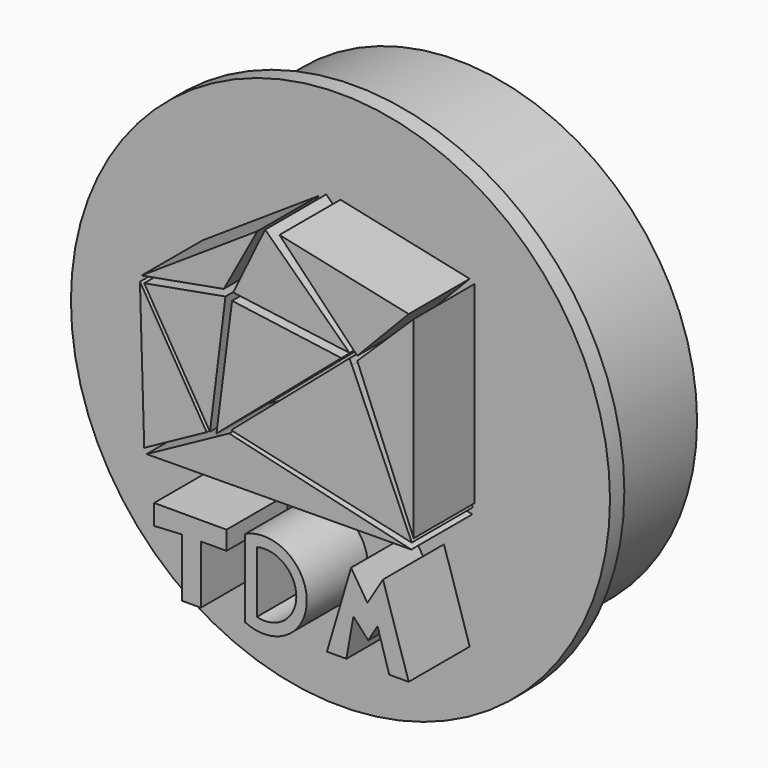
from build123d import *

# Parameters (mm, degrees)
F1_DEPTH = 25.4
F2_R     = 64.713849
F3_DEPTH = 34.544
F4_R     = 72.72038
F5_DEPTH = 4.826


with BuildPart() as f1:
    # F0 (on Front) → F1 (new body)
    with BuildSketch(Plane.XZ):
        Polygon((-33.810001, -32.55), (-26.250001, -32.129999), (-26.250001, -47.880001), (-21.21, -47.880001), (-21.21, -32.129999), (-14.28, -32.129999), (-14.28, -27.09), (-33.810001, -27.09), align=None)
        with BuildLine():
            ThreePointArc((-9.24, -47.459997), (7.38291, -36.959998), (-9.24, -26.459999))
            Line((-9.24, -26.459999), (-9.24, -47.459997))
        make_face()
        with BuildLine():
            Line((-6.09, -45.150001), (-6.09, -28.56))
            ThreePointArc((-6.09, -28.56), (4.548028, -36.855), (-6.09, -45.150001))
        make_face(mode=Mode.SUBTRACT)
        Polygon((23.730002, -32.129999), (19.320002, -25.2), (12.81, -47.250003), (18.060001, -47.250003), (19.950001, -36.539998), (23.940001, -40.95), (26.460001, -36.75), (29.609999, -47.250003), (34.860004, -47.250003), (27.929999, -25.2), align=None)
        Polygon((-5.941163, 46.513464), (-37.198212, 25.824275), (-15.02059, 29.843038), align=None)
        Polygon((-3.85736, 47.555361), (-12.490258, 29.843038), (18.915633, 25.675431), align=None)
        Polygon((34.865764, 40.107735), (0, 47.555361), (20.999435, 25.675431), align=None)
        Polygon((36.211781, -12.726083), (36.211781, 39.339835), (20.999435, 24.463724), align=None)
        Polygon((-14.557891, 28.193708), (-36.486941, 24.219988), (-18.741667, -5.283929), align=None)
        Polygon((-17.001314, -5.135086), (16.682984, 23.74047), (-12.787945, 27.759233), align=None)
        Polygon((-17.848609, -6.345073), (-35.85862, -16.149474), (35.561599, -15.605713), (-13.546449, -4.003036), align=None)
        Polygon((-19.642144, -5.698055), (-37.636496, 24.219988), (-36.486941, -14.868131), align=None)
        Polygon((18.915633, 24.399498), (-13.038057, -3.048536), (35.689779, -13.916828), (19.545413, 22.960923), align=None)
    extrude(amount=F1_DEPTH)


with BuildPart() as f3:
    # F2 (on Front) → F3 (new body)
    with BuildSketch(Plane.XZ):
        Circle(F2_R)
    extrude(amount=-F3_DEPTH)


with BuildPart() as f5:
    # F4 (on Front) → F5 (new body)
    with BuildSketch(Plane.XZ):
        Circle(F4_R)
    extrude(amount=F5_DEPTH)


solid = Compound([f1.part, f3.part, f5.part])
